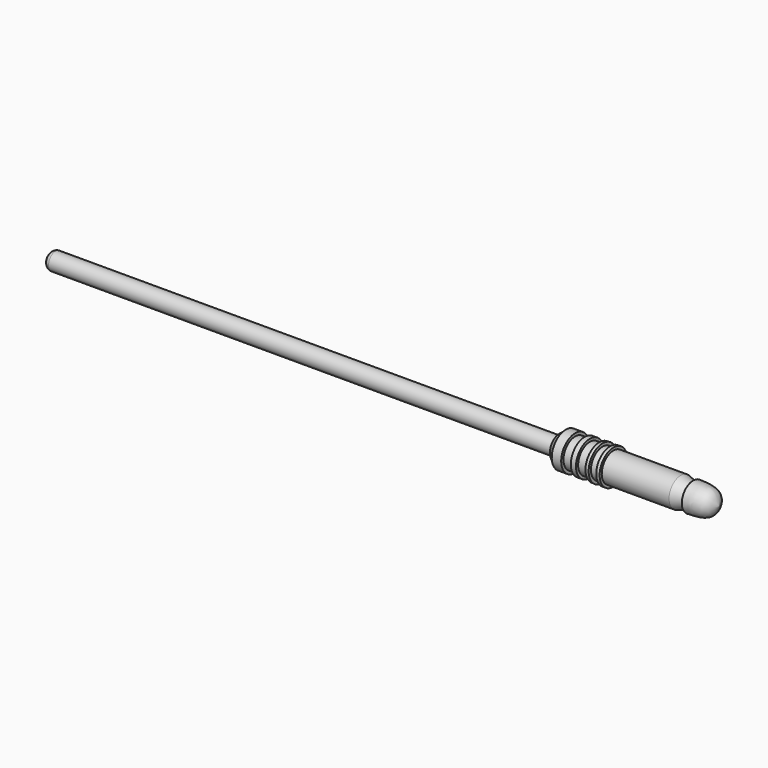
from build123d import *

# Parameters (mm, degrees)
F0_W = 3.2411776483
F0_H = 2.5474922732
F3_R = 8.3683706785
F6_R = 5.08


with BuildPart() as f1:
    # F0 (on Front) → F1 (revolve)
    with BuildSketch(Plane.XZ):
        with BuildLine():
            ThreePointArc((-70.2806040645, 8.3955885455), (-63.042896169, 6.0822749788), (-58.4885832328, 0))
            Line((-58.4885832328, 0), (67.3045441508, 0))
            add(Edge.make_bspline(
                [(67.3045441508, 0), (65.9803697795, 4.0526402448), (62.9878467503, 13.2112673287), (49.88521911, 13.474439122), (42.5804294646, 13.6211588979)],
                knots=[0, 0, 0, 0, 0.4424942961, 1, 1, 1, 1], degree=3))
            Line((42.5804294646, 13.6211588979), (42.5804294646, 10.4161798954))
            Line((42.5804294646, 10.4161798954), (30.676221475, 14.079012908))
            Line((30.676221475, 14.079012908), (-33.9665450156, 14.079012908))
            Line((-33.9665450156, 14.079012908), (-37.2077226639, 14.079012908))
            Line((-37.2077226639, 14.079012908), (-44.3383082747, 14.079012908))
            Line((-44.3383082747, 14.079012908), (-47.5794821978, 14.079012908))
            Line((-47.5794821978, 14.079012908), (-56.6547736526, 14.079012908))
            Line((-56.6547736526, 14.079012908), (-61.8406534195, 14.079012908))
            Line((-61.8406534195, 14.079012908), (-70.6998631358, 14.079012908))
            Line((-70.6998631358, 14.079012908), (-82.1848064661, 14.079012908))
            add(Edge.make_bspline(
                [(-82.1848064661, 14.079012908), (-84.1838894884, 13.0008951839), (-88.0260630714, 10.5215938657), (-84.0787284889, 9.6019079651), (-82.1848064661, 8.3955885455)],
                knots=[0, 0, 0, 0, 0.5110780898, 1, 1, 1, 1], degree=3))
            Line((-82.1848064661, 8.3955885455), (-70.2806040645, 8.3955885455))
        make_face()
        Polygon((-79.7751545906, 16.8425831944), (-82.1848064661, 14.079012908), (-70.6998631358, 14.079012908), (-70.6998631358, 16.8425831944), align=None)
        with Locations((-35.5871338397, 15.3527590446)):
            Rectangle(F0_W, F0_H)
        Polygon((-61.6245754063, 16.6265051812), (-61.8406534195, 14.079012908), (-56.6547736526, 14.079012908), (-56.6547736526, 16.6265051812), align=None)
        Polygon((-47.5794821978, 14.079012908), (-44.3383082747, 14.079012908), (-47.5794821978, 16.6265051812), align=None)
        Polygon((-47.5794821978, 16.6265051812), (-44.3383082747, 14.079012908), (-44.3383082747, 16.8425831944), align=None)
    revolve(axis=Axis((4.407980459, 0, 0), (1, 0, 0)))


with BuildPart() as f5:
    # F5: sweep along a path in F4
    with BuildLine(Plane.XZ) as f5_path:
        Line((-76.4538571239, 0), (-258.4750056267, 0))
        Line((-258.4750056267, 0), (-575.1044750214, 0))
    # F3 (on offset) → F5 (sweep)
    with BuildSketch(Plane.YZ.offset(-76.2)):
        Circle(F3_R)
    sweep(path=f5_path.line)

    # F6
    f6_edges = [f5.edges().sort_by_distance(p)[0] for p in [
        (-76.2, -8.368371, 0),
        (-325.525309, 8.368371, 0),
        (-574.850618, -8.368371, 0),
    ]]
    fillet(f6_edges, radius=F6_R)


solid = Compound([f1.part, f5.part])
